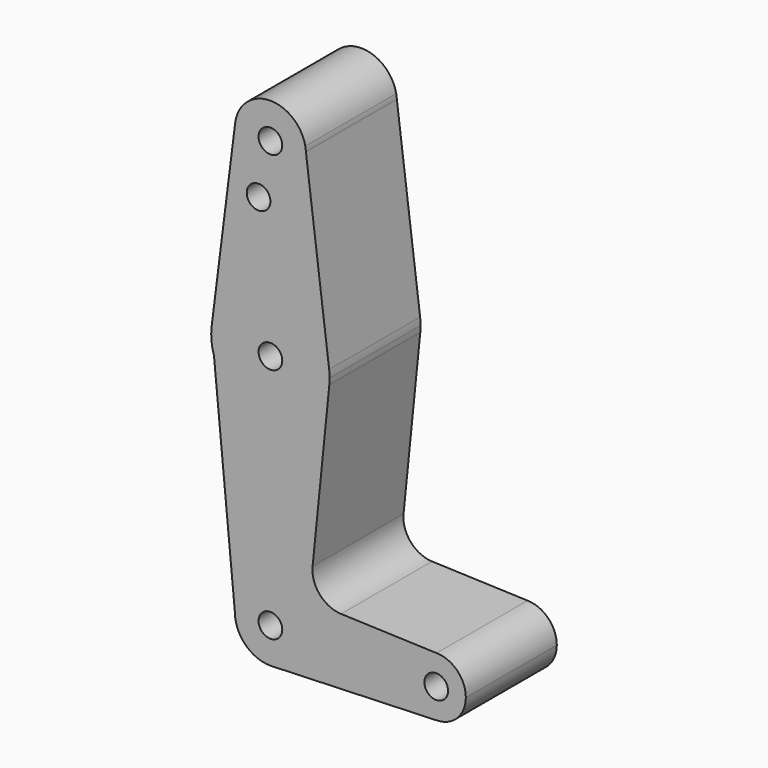
from build123d import *

# Parameters (mm, degrees)
F0_R     = 3.175
F1_DEPTH = 30.48


with BuildPart() as f1:
    # F0 (on Front) → F1 (new body)
    with BuildSketch(Plane.XZ):
        with BuildLine():
            Line((9.510055, 114.833363), (9.343463, 116.150762))
            ThreePointArc((9.343463, 116.150762), (-0.334404, 123.819128), (-9.450303, 115.490543))
            ThreePointArc((-9.450303, 115.490543), (-0.596442, 104.793693), (9.525, 114.3))
            ThreePointArc((9.525, 114.3), (9.521263, 114.566786), (9.510055, 114.833363))
        make_face()
        with Locations((0, 114.3)):
            Circle(F0_R, mode=Mode.SUBTRACT)
        with BuildLine():
            ThreePointArc((9.510055, 114.833363), (9.449745, 115.494969), (9.343463, 116.150762))
            Line((9.343463, 116.150762), (9.510055, 114.833363))
        make_face()
        with BuildLine():
            ThreePointArc((9.525, 114.3), (-0.596442, 104.793693), (-9.450303, 115.490543))
            Line((-9.450303, 115.490543), (-15.735324, 65.601239))
            ThreePointArc((-15.735324, 65.601239), (0.055273, 79.374904), (15.749574, 65.491615))
            Line((15.749574, 65.491615), (9.510055, 114.833363))
            ThreePointArc((9.510055, 114.833363), (9.521263, 114.566786), (9.525, 114.3))
        make_face()
        with Locations((-3.175, 100.0252)):
            Circle(F0_R, mode=Mode.SUBTRACT)
        with BuildLine():
            Line((-15.764817, 65.367128), (-15.735324, 65.601239))
            ThreePointArc((-15.735324, 65.601239), (-15.750506, 65.484238), (-15.764817, 65.367128))
        make_face()
        with BuildLine():
            ThreePointArc((15.749574, 65.491615), (0.055273, 79.374904), (-15.735324, 65.601239))
            Line((-15.735324, 65.601239), (-15.764817, 65.367128))
            Line((-15.764817, 65.367128), (-15.12686, 58.684014))
            ThreePointArc((-15.12686, 58.684014), (1.642434, 47.710192), (15.794203, 61.90038))
            ThreePointArc((15.794203, 61.90038), (15.854788, 62.699171), (15.875, 63.5))
            ThreePointArc((15.875, 63.5), (15.843612, 64.49778), (15.749574, 65.491615))
        make_face()
        with Locations((0, 63.5)):
            Circle(F0_R, mode=Mode.SUBTRACT)
        with BuildLine():
            Line((-15.12686, 58.684014), (-15.764817, 65.367128))
            ThreePointArc((-15.764817, 65.367128), (-15.803162, 61.991461), (-15.12686, 58.684014))
        make_face()
        with BuildLine():
            ThreePointArc((15.794203, 61.90038), (1.642434, 47.710192), (-15.12686, 58.684014))
            Line((-15.12686, 58.684014), (-9.525, 0))
            ThreePointArc((-9.525, 0), (0, 9.525), (9.525, 0))
            ThreePointArc((9.525, 0), (6.97061, -6.491242), (0.677501, -9.500875))
            Line((0.677501, -9.500875), (44.732484, -7.932102))
            ThreePointArc((44.732484, -7.932102), (36.513087, -0.09504), (44.541716, 7.937341))
            Line((44.541716, 7.937341), (18.932946, 8.853652))
            ThreePointArc((18.932946, 8.853652), (13.224775, 11.574196), (11.307494, 17.599858))
            Line((11.307494, 17.599858), (15.794203, 61.90038))
        make_face()
        with BuildLine():
            ThreePointArc((9.525, 0), (0, 9.525), (-9.525, 0))
            ThreePointArc((-9.525, 0), (-6.735192, -6.735192), (0, -9.525))
            Line((0, -9.525), (0.677501, -9.500875))
            ThreePointArc((0.677501, -9.500875), (6.97061, -6.491242), (9.525, 0))
        make_face()
        Circle(F0_R, mode=Mode.SUBTRACT)
        with BuildLine():
            Line((0.677501, -9.500875), (0, -9.525))
            ThreePointArc((0, -9.525), (0.338965, -9.518967), (0.677501, -9.500875))
        make_face()
        with BuildLine():
            ThreePointArc((52.387513, 0.00037), (50.095002, 5.580514), (44.541716, 7.937341))
            ThreePointArc((44.541716, 7.937341), (36.513087, -0.09504), (44.732484, -7.932102))
            ThreePointArc((44.732484, -7.932102), (50.161669, -5.511516), (52.387513, 0.00037))
        make_face()
        with Locations((44.450013, 0.00037)):
            Circle(F0_R, mode=Mode.SUBTRACT)
    extrude(amount=F1_DEPTH)


solid = f1.part
